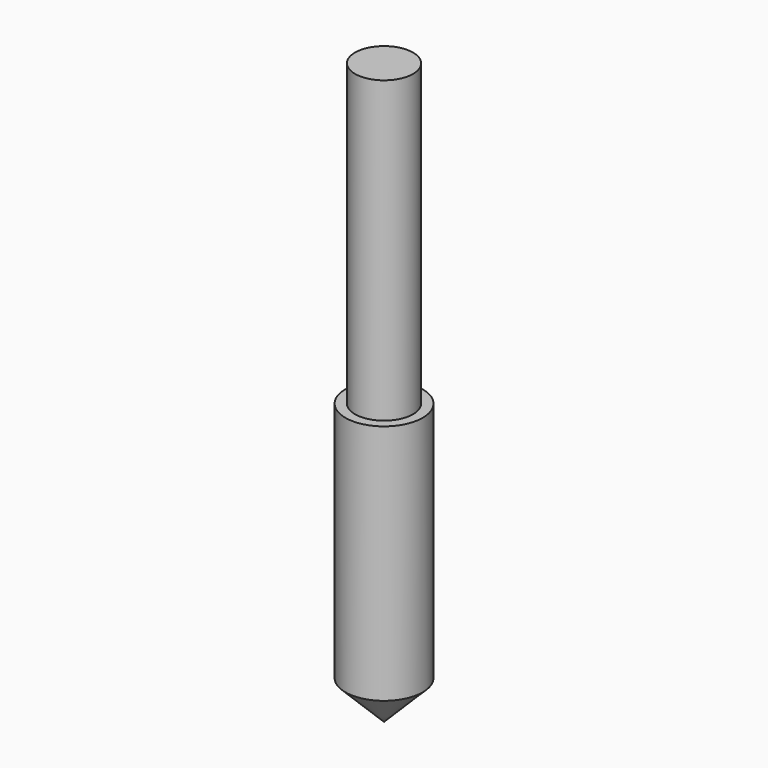
from build123d import *


with BuildPart() as part:
    # Sketch → Revolution (revolve)
    with BuildSketch(Plane.XZ):
        Polygon((0, 0), (4, 4), (4, 29), (3, 29), (3, 60), (0, 60), align=None)
    revolve(axis=Axis((0, 0, 0), (0, 0, 1)))


solid = part.part
